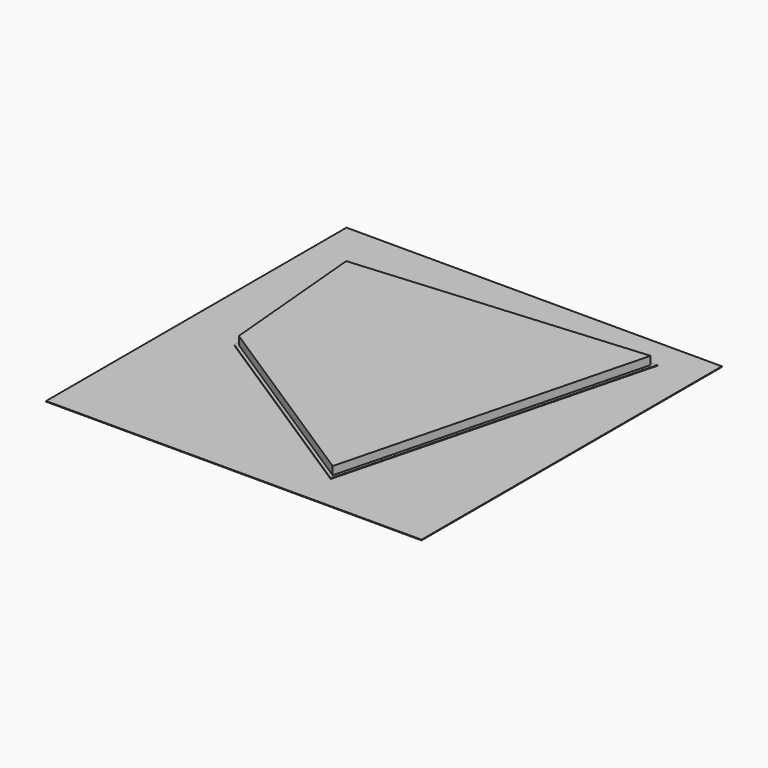
from build123d import *

# Parameters (mm, degrees)
F0_W     = 600
F0_H     = 600
F5_DEPTH = 1
F1_DEPTH = 2
F2_DEPTH = 15


with BuildPart() as f5:
    # F0 (on Top) → F5 (new body)
    with BuildSketch(Plane.XY):
        with Locations((10.792556, -20.516564)):
            Rectangle(F0_W, F0_H)
        Polygon((-221.498368, 192.184042), (246.932485, 230.557681), (119.79194, -263.340367), (-199.188834, -56.818538), align=None, mode=Mode.SUBTRACT)
    extrude(amount=F5_DEPTH)

    # F0 (on Top) → F1 (join)
    with BuildSketch(Plane.XY):
        Polygon((119.79194, -263.340367), (246.932485, 230.557681), (-221.498368, 192.184042), (-199.188834, -56.818538), align=None)
        Polygon((240.339008, 225.000797), (116.680786, -255.369601), (-194.426209, -53.945594), (-216.068713, 187.612088), align=None, mode=Mode.SUBTRACT)
    extrude(amount=F1_DEPTH)

    # F0 (on Top) → F2 (join)
    with BuildSketch(Plane.XY):
        Polygon((-194.426209, -53.945594), (116.680786, -255.369601), (240.339008, 225.000797), (-216.068713, 187.612088), align=None)
    extrude(amount=F2_DEPTH)


solid = f5.part
